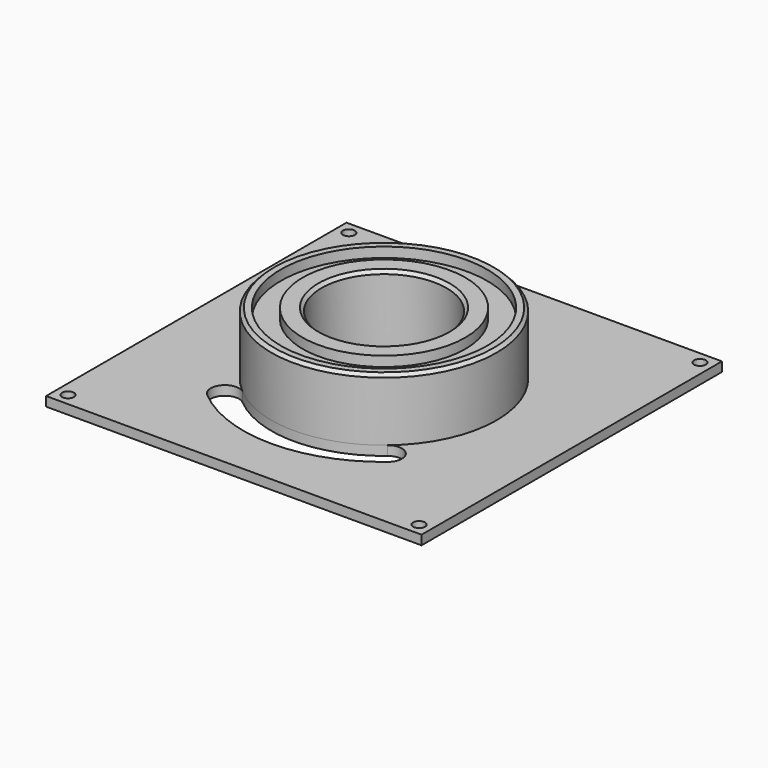
from build123d import *

# Parameters (mm, degrees)
SKETCH085_W             = 120
SKETCH085_H             = 120
PAD022_DEPTH            = 3
SKETCH087_R             = 1.9
POCKET055_DEPTH         = 3.001
SKETCH086_R             = 20
POCKET057_DEPTH         = 3.001
SKETCH089_R             = 36
PAD023_DEPTH            = 20
SKETCH081_R             = 20
POCKET053_DEPTH         = 20.001
SKETCH084_R             = 33
SKETCH084_R_2           = 26
POCKET056_DEPTH         = 3.2
CHAMFER005_SIZE         = 1
CHAMFER004_SIZE         = 1
POCKET054_DEPTH         = 3.001
BODY012_PLACEMENT_ANGLE = 90


with BuildPart() as part:
    # Sketch085 → Pad022 (new body)
    with BuildSketch(Plane.XZ):
        with Locations((60, 60)):
            Rectangle(SKETCH085_W, SKETCH085_H)
    extrude(amount=PAD022_DEPTH)

    # Sketch087 (on Face6 of Pad022) → Pocket055 (cut, through all)
    with BuildSketch(Plane.XZ.offset(3)):
        with Locations((3.9, 3.9)):
            Circle(SKETCH087_R)
        with Locations((116.1, 3.9)):
            Circle(SKETCH087_R)
        with Locations((116.1, 116.1)):
            Circle(SKETCH087_R)
        with Locations((3.9, 116.1)):
            Circle(SKETCH087_R)
    extrude(amount=-POCKET055_DEPTH, mode=Mode.SUBTRACT)

    # Sketch086 (on Face5 of Pocket055) → Pocket057 (cut, through all)
    with BuildSketch(Plane.XZ.offset(3)):
        with Locations((60, 60)):
            Circle(SKETCH086_R)
    extrude(amount=-POCKET057_DEPTH, mode=Mode.SUBTRACT)

    # Sketch089 (on Face5 of Pocket057) → Pad023 (join)
    with BuildSketch(Plane.XZ.offset(3)):
        with Locations((60, 60)):
            Circle(SKETCH089_R)
    extrude(amount=PAD023_DEPTH)

    # Sketch081 (on Face13 of Pad023) → Pocket053 (cut, through all)
    with BuildSketch(Plane(origin=(0, -3, 0), x_dir=(1, 0, 0), z_dir=(0, 1, 0))):
        with Locations((60, -60)):
            Circle(SKETCH081_R)
    extrude(amount=-POCKET053_DEPTH, mode=Mode.SUBTRACT)

    # Sketch084 (on Face14 of Pocket053) → Pocket056 (cut)
    with BuildSketch(Plane.XZ.offset(23)):
        with Locations((60, 60)):
            Circle(SKETCH084_R)
        with Locations((60, 60)):
            Circle(SKETCH084_R_2, mode=Mode.SUBTRACT)
    extrude(amount=-POCKET056_DEPTH, mode=Mode.SUBTRACT)

    # Chamfer005
    chamfer005_edges = [part.edges().sort_by_distance(p)[0] for p in [
        (40, -23, 60),
    ]]
    chamfer(chamfer005_edges, length=CHAMFER005_SIZE)

    # Chamfer004
    chamfer004_edges = [part.edges().sort_by_distance(p)[0] for p in [
        (24, -23, 60),
    ]]
    chamfer(chamfer004_edges, length=CHAMFER004_SIZE)

    # Sketch088 (on Face3 of Chamfer004) → Pocket054 (cut, through all)
    with BuildSketch(Plane.XZ.offset(3)):
        with BuildLine():
            ThreePointArc((36.859646, 32.4224), (60, 24), (83.140354, 32.4224))
            ThreePointArc((88.925456, 25.528011), (89.480105, 31.867761), (83.140354, 32.4224))
            ThreePointArc((31.074571, 25.527989), (60.000017, 15), (88.925456, 25.528011))
            ThreePointArc((36.859646, 32.4224), (30.519908, 31.867728), (31.074571, 25.527989))
        make_face()
    extrude(amount=-POCKET054_DEPTH, mode=Mode.SUBTRACT)


with BuildPart() as part_1:
    # Body012 placement: moved
    add(part.part.moved(Location((15, 15, 56))).rotate(Axis((15, 15, 56), (-1, 0, 0)), BODY012_PLACEMENT_ANGLE))


solid = part_1.part
